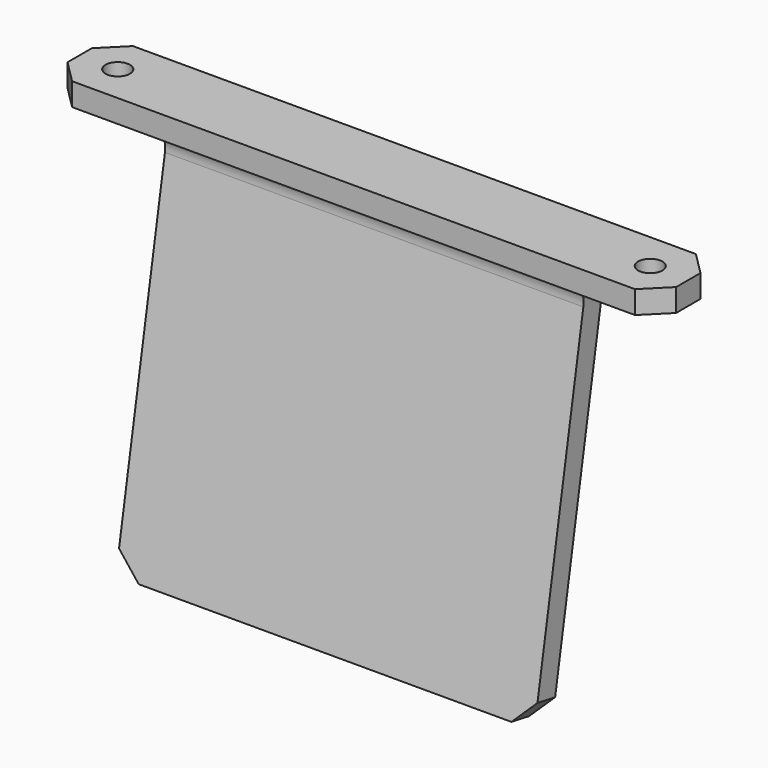
from build123d import *

# Parameters (mm, degrees)
SKETCH243_W     = 80
SKETCH243_H     = 10
SKETCH243_R     = 1.6
PAD126_DEPTH    = 3
CHAMFER087_SIZE = 3
PAD127_DEPTH    = 27.5
CHAMFER088_SIZE = 3
FILLET084_R     = 3


with BuildPart() as part:
    # Sketch243 → Pad126 (new body)
    with BuildSketch(Plane.XY):
        Rectangle(SKETCH243_W, SKETCH243_H)
        with Locations((35, 0)):
            Circle(SKETCH243_R, mode=Mode.SUBTRACT)
        with Locations((-35, 0)):
            Circle(SKETCH243_R, mode=Mode.SUBTRACT)
    extrude(amount=PAD126_DEPTH)

    # Chamfer087
    chamfer087_edges = [part.edges().sort_by_distance(p)[0] for p in [
        (40, -5, 1.5),
        (40, 5, 1.5),
        (-40, -5, 1.5),
        (-40, 5, 1.5),
    ]]
    chamfer(chamfer087_edges, length=CHAMFER087_SIZE)

    # Sketch244 → Pad127 (join, symmetric)
    with BuildSketch(Plane.YZ):
        Polygon((-1, 0), (2, 0), (-6.77287, -49.753418), (-9.682409, -49.240388), align=None)
    extrude(amount=PAD127_DEPTH, both=True)

    # Chamfer088
    chamfer088_edges = [part.edges().sort_by_distance(p)[0] for p in [
        (-27.5, -8.227639, -49.496903),
        (27.5, -8.227639, -49.496903),
    ]]
    chamfer(chamfer088_edges, length=CHAMFER088_SIZE)

    # Fillet084
    fillet084_edges = [part.edges().sort_by_distance(p)[0] for p in [
        (0, -1, 0),
        (0, 2, 0),
    ]]
    fillet(fillet084_edges, radius=FILLET084_R)


solid = part.part
